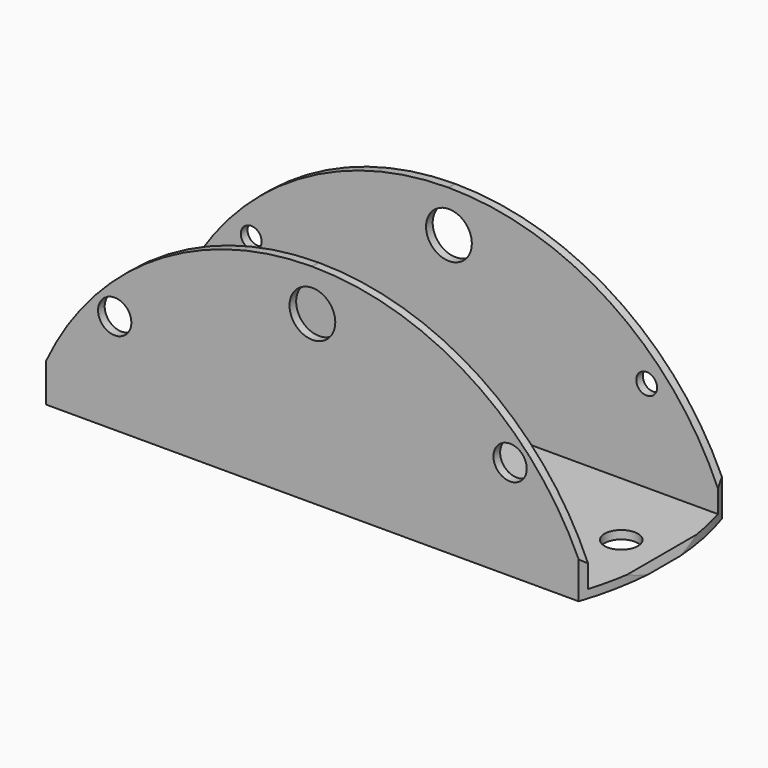
from build123d import *

# Parameters (mm, degrees)
F1_DEPTH  = 50
F2_R      = 5.5
F3_DEPTH  = 22.5
F5_W      = 19.5
F5_H      = 50
F6_DEPTH  = 90
F7_R      = 4
F8_DEPTH  = 50.001
F9_R      = 2.5
F10_DEPTH = 50
F11_R     = 4
F12_DEPTH = 40


with BuildPart() as f1:
    # F0 (on Top) → F1 (new body)
    with BuildSketch(Plane.XY):
        with BuildLine():
            Line((0, -21.5), (63.984373, -21.5))
            ThreePointArc((63.984373, -21.5), (67.5, 0), (63.984373, 21.5))
            Line((63.984373, 21.5), (0, 21.5))
            Line((0, 21.5), (-63.984373, 21.5))
            ThreePointArc((-63.984373, 21.5), (-67.5, 0), (-63.984373, -21.5))
            Line((-63.984373, -21.5), (0, -21.5))
        make_face()
    extrude(amount=F1_DEPTH)


with BuildPart() as f3:
    # F2 (on Front) → F3 (new body, symmetric)
    with BuildSketch(Plane.XZ):
        with BuildLine():
            Line((-67.518182, 0), (67.335986, 0))
            ThreePointArc((67.335986, 0), (-0.091098, 50.000059), (-67.518182, 0))
        make_face()
        with Locations((0, 40)):
            Circle(F2_R, mode=Mode.SUBTRACT)
    extrude(amount=F3_DEPTH, both=True)


with BuildPart() as f1_1:
    add(f1.part)

    # F4: intersect F3
    add(f3.part, mode=Mode.INTERSECT)

    # F5 (on Right) → F6 (cut, symmetric)
    with BuildSketch(Plane.YZ):
        with Locations((-9.75, 27)):
            Rectangle(F5_W, F5_H)
        with Locations((9.75, 27)):
            Rectangle(F5_W, F5_H)
    extrude(amount=F6_DEPTH, both=True, mode=Mode.SUBTRACT)

    # F7 (on Top) → F8 (cut, through all)
    with BuildSketch(Plane.XY):
        with Locations((57, 0)):
            Circle(F7_R)
        with Locations((-57, 0)):
            Circle(F7_R)
    extrude(amount=F8_DEPTH, mode=Mode.SUBTRACT)

    # F9 (on Front) → F10 (cut)
    with BuildSketch(Plane.XZ):
        with Locations((-47.5, 24)):
            Circle(F9_R)
        with Locations((47.5, 24)):
            Circle(F9_R)
    extrude(amount=-F10_DEPTH, mode=Mode.SUBTRACT)

    # F11 (on Front) → F12 (cut)
    with BuildSketch(Plane.XZ):
        with Locations((47.5, 24)):
            Circle(F11_R)
        with Locations((-47.5, 24)):
            Circle(F11_R)
    extrude(amount=F12_DEPTH, mode=Mode.SUBTRACT)


solid = f1_1.part
